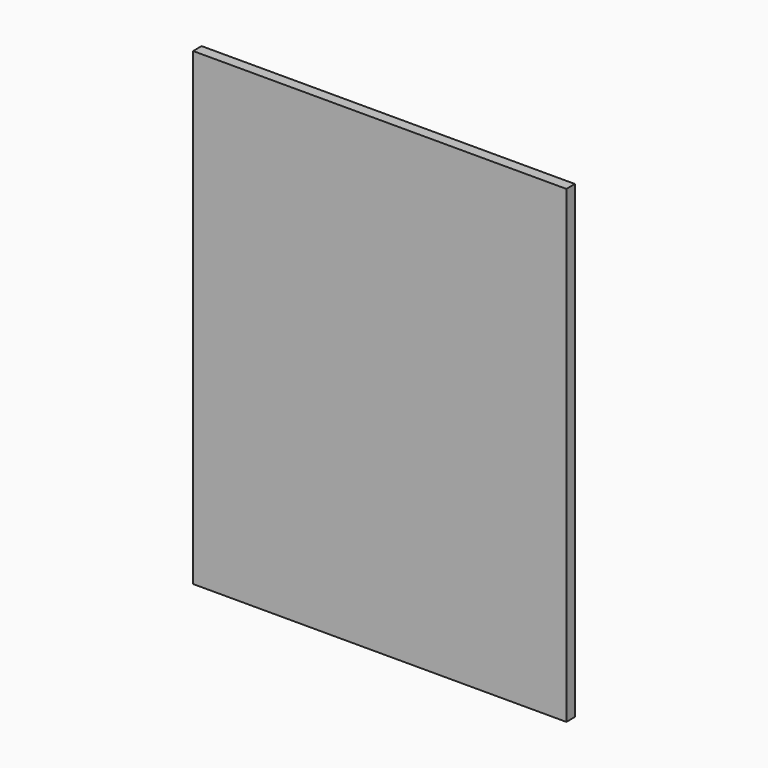
from build123d import *

# Parameters (mm, degrees)
BOX_W     = 1.75
BOX_H     = 0.05
BOX_DEPTH = 2.2


with BuildPart() as part:
    # Box → Box (new body)
    with BuildSketch(Plane.XY):
        with Locations((0.875, 0.025)):
            Rectangle(BOX_W, BOX_H)
    extrude(amount=BOX_DEPTH)


solid = part.part
